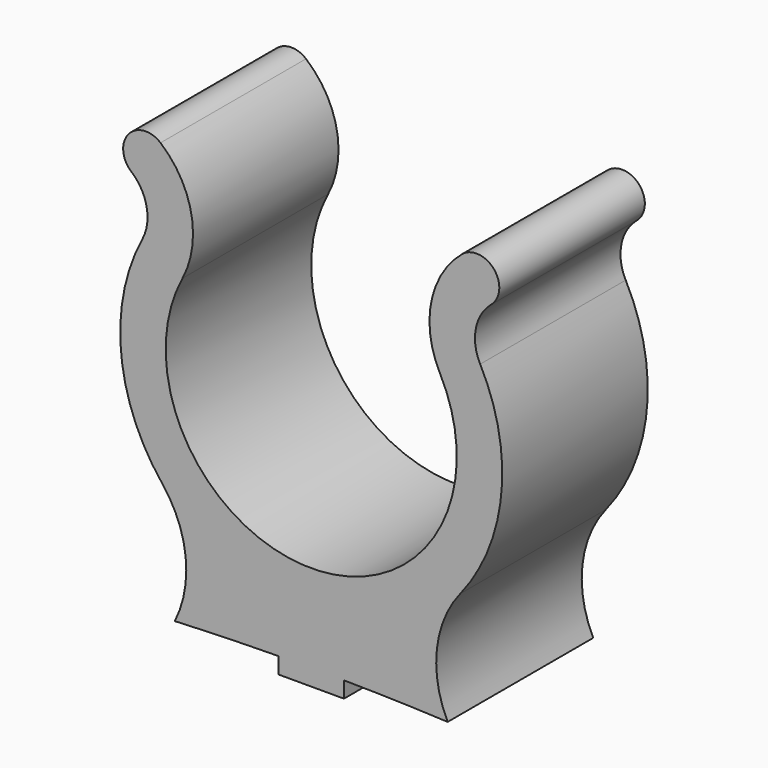
from build123d import *

# Parameters (mm, degrees)
F1_DEPTH = 12.7


with BuildPart() as f1:
    # F0 (on Front) → F1 (new body)
    with BuildSketch(Plane.XZ):
        with BuildLine():
            ThreePointArc((8.987692, 4.737825), (0, -10.16), (-8.987692, 4.737825))
            ThreePointArc((-8.987692, 4.737825), (-8.373837, 8.92171), (-10.523299, 12.563348))
            ThreePointArc((-10.523299, 12.563348), (-12.75982, 12.367678), (-12.564149, 10.131157))
            ThreePointArc((-12.564149, 10.131157), (-11.489418, 8.310338), (-11.796346, 6.218395))
            ThreePointArc((-11.796346, 6.218395), (-13.274268, -1.271228), (-10.401737, -8.344225))
            ThreePointArc((-10.401737, -8.344225), (-8.769131, -12.298891), (-9.525, -16.51))
            ThreePointArc((-9.525, -16.51), (-5.906382, -16.376666), (-2.286, -16.30588))
            Line((-2.286, -16.30588), (-2.286, -17.436411))
            Line((-2.286, -17.436411), (2.286, -17.436411))
            Line((2.286, -17.436411), (2.286, -16.30588))
            ThreePointArc((2.286, -16.30588), (5.906382, -16.376666), (9.525, -16.51))
            ThreePointArc((9.525, -16.51), (8.769131, -12.298891), (10.401737, -8.344225))
            ThreePointArc((10.401737, -8.344225), (13.274268, -1.271228), (11.796346, 6.218395))
            ThreePointArc((11.796346, 6.218395), (11.489418, 8.310338), (12.564149, 10.131157))
            ThreePointArc((12.564149, 10.131157), (12.75982, 12.367678), (10.523299, 12.563348))
            ThreePointArc((10.523299, 12.563348), (8.373837, 8.92171), (8.987692, 4.737825))
        make_face()
    extrude(amount=F1_DEPTH)


solid = f1.part
